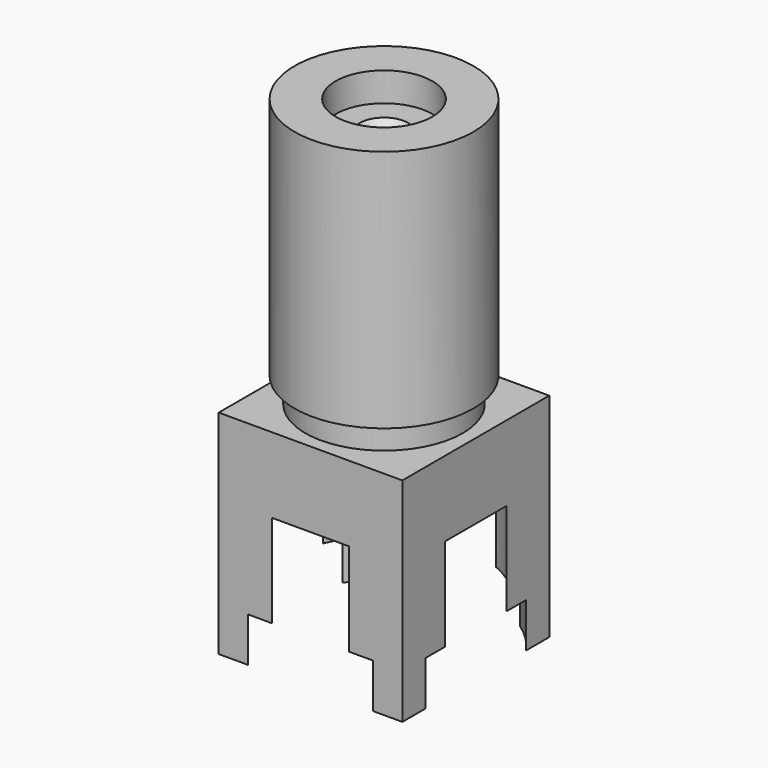
from build123d import *

# Parameters (mm, degrees)
SKETCH_W        = 9.5
SKETCH_H        = 9.5
PAD_DEPTH       = 11
SKETCH001_R     = 4.075
PAD001_DEPTH    = 1.3
SKETCH002_R     = 4.625
PAD002_DEPTH    = 12.6
SKETCH003_R     = 2.5
POCKET_DEPTH    = 1.5
SKETCH004_R     = 0.75
POCKET001_DEPTH = 5
SKETCH005_R     = 5.75
POCKET002_DEPTH = 2.3
SKETCH006_R     = 5.15
POCKET003_DEPTH = 4.8
CHAMFER_SIZE    = 0.5


with BuildPart() as part:
    # Sketch → Pad (new body)
    with BuildSketch(Plane.XY):
        Rectangle(SKETCH_W, SKETCH_H)
    extrude(amount=-PAD_DEPTH)

    # Sketch001 (on Face5 of Pad) → Pad001 (join)
    with BuildSketch(Plane.XY):
        Circle(SKETCH001_R)
    extrude(amount=PAD001_DEPTH)

    # Sketch002 (on Face8 of Pad001) → Pad002 (join)
    with BuildSketch(Plane.XY.offset(1.3)):
        Circle(SKETCH002_R)
    extrude(amount=PAD002_DEPTH)

    # Sketch003 (on Face3 of Pad002) → Pocket (cut)
    with BuildSketch(Plane.XY.offset(13.9)):
        Circle(SKETCH003_R)
    extrude(amount=-POCKET_DEPTH, mode=Mode.SUBTRACT)

    # Sketch004 (on Face7 of Pocket) → Pocket001 (cut)
    with BuildSketch(Plane.XY.offset(12.4)):
        Circle(SKETCH004_R)
    extrude(amount=-POCKET001_DEPTH, mode=Mode.SUBTRACT)

    # Sketch005 (on Face13 of Pocket001) → Pocket002 (cut)
    with BuildSketch(Plane(origin=(0, 0, -11), x_dir=(1, 0, 0), z_dir=(0, 0, -1))):
        Circle(SKETCH005_R)
    extrude(amount=-POCKET002_DEPTH, mode=Mode.SUBTRACT)

    # Sketch006 (on Face15 of Pocket002) → Pocket003 (cut)
    with BuildSketch(Plane(origin=(0, 0, -8.7), x_dir=(1, 0, 0), z_dir=(0, 0, -1))):
        Circle(SKETCH006_R)
    extrude(amount=-POCKET003_DEPTH, mode=Mode.SUBTRACT)

    # Chamfer
    chamfer_edges = [part.edges().sort_by_distance(p)[0] for p in [
        (-0.75, 0, 12.4),
    ]]
    chamfer(chamfer_edges, length=CHAMFER_SIZE)


solid = part.part
